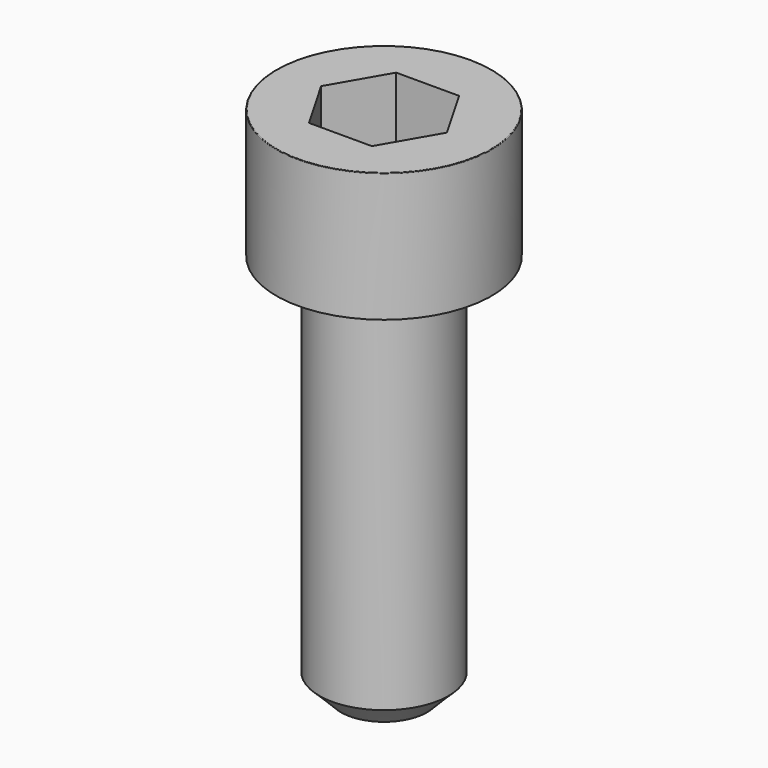
from build123d import *

# Parameters (mm, degrees)
POCKET_DEPTH = 5.06


with BuildPart() as part:
    # Sketch → Revolve (revolve)
    with BuildSketch(Plane.YZ):
        with BuildLine():
            Line((2.999, 0), (5, 0))
            Line((5, 0), (5, 5.97229))
            ThreePointArc((5, 5.97229), (4.991884, 5.991884), (4.97229, 6))
            Line((4.97229, 6), (0, 6))
            Line((0, -18), (0, 6))
            Line((2, -18), (0, -18))
            Line((3, -17), (2, -18))
            Line((3, -0.2), (3, -17))
            Line((2.999, 0), (3, -0.2))
        make_face()
    revolve(axis=Axis((0, 0, 0), (0, 0, 1)))

    # Sketch001 → Pocket (cut)
    with BuildSketch(Plane.XY.offset(6)):
        Polygon((2.921392, 0), (1.460696, 2.53), (-1.460696, 2.53), (-2.921392, 0), (-1.460696, -2.53), (1.460696, -2.53), align=None)
    extrude(amount=-POCKET_DEPTH, mode=Mode.SUBTRACT)


solid = part.part
